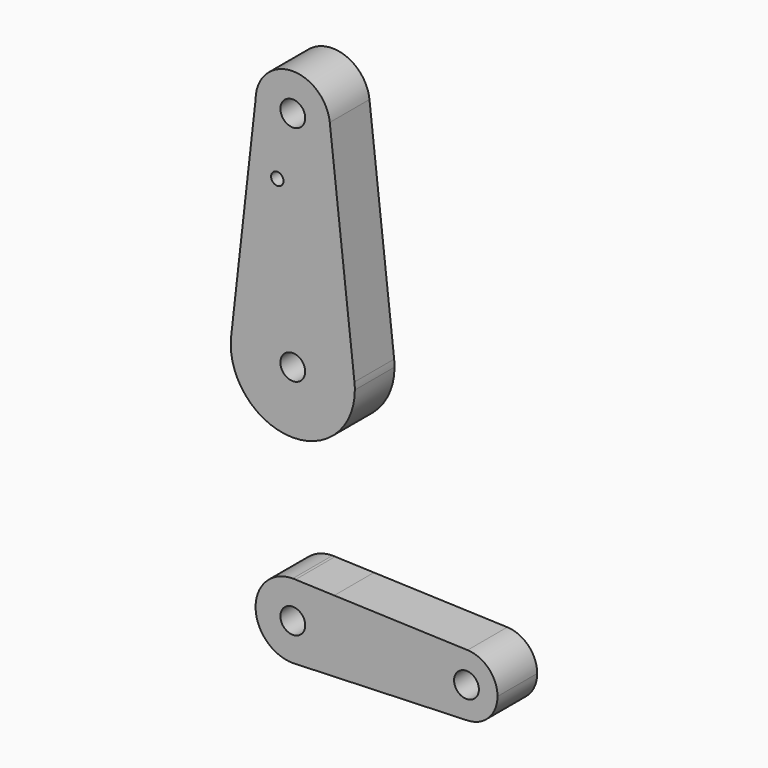
from build123d import *

# Parameters (mm, degrees)
F0_R     = 3.175
F0_R_2   = 1.5875
F1_DEPTH = 12.7


with BuildPart() as f1:
    # F0 (on Front) → F1 (new body)
    with BuildSketch(Plane.XZ):
        with BuildLine():
            ThreePointArc((-9.525, 114.3), (0, 104.775), (9.525, 114.3))
            ThreePointArc((9.525, 114.3), (9.510244, 114.829988), (9.466021, 115.358333))
            ThreePointArc((9.466021, 115.358333), (-0.529988, 123.810244), (-9.525, 114.3))
        make_face()
        with Locations((0, 114.3)):
            Circle(F0_R, mode=Mode.SUBTRACT)
        with BuildLine():
            ThreePointArc((9.466021, 115.358333), (9.510244, 114.829988), (9.525, 114.3))
            ThreePointArc((9.525, 114.3), (0, 104.775), (-9.525, 114.3))
            Line((-9.525, 114.3), (-15.774826, 58.930585))
            ThreePointArc((-15.774826, 58.930585), (0.0084, 73.024998), (15.776702, 58.913889))
            Line((15.776702, 58.913889), (9.466021, 115.358333))
        make_face()
        with Locations((-3.970379, 98.291509)):
            Circle(F0_R_2, mode=Mode.SUBTRACT)
        with BuildLine():
            ThreePointArc((15.875, 57.15), (15.850406, 58.033313), (15.776702, 58.913889))
            ThreePointArc((15.776702, 58.913889), (0.0084, 73.024998), (-15.774826, 58.930585))
            ThreePointArc((-15.774826, 58.930585), (-15.874998, 57.1584), (-15.776702, 55.386111))
            ThreePointArc((-15.776702, 55.386111), (0.883313, 41.299594), (15.875, 57.15))
        make_face()
        with Locations((0, 57.15)):
            Circle(F0_R, mode=Mode.SUBTRACT)
        with BuildLine():
            Line((0.677344, 9.500886), (0, 9.525))
            ThreePointArc((0, 9.525), (-9.525, 0), (0, -9.525))
            Line((0, -9.525), (0.677344, -9.500886))
            ThreePointArc((0.677344, -9.500886), (6.970557, -6.491299), (9.525, 0))
            ThreePointArc((9.525, 0), (6.970557, 6.491299), (0.677344, 9.500886))
        make_face()
        Circle(F0_R, mode=Mode.SUBTRACT)
        with BuildLine():
            ThreePointArc((0.677344, 9.500886), (0.338886, 9.51897), (0, 9.525))
            Line((0, 9.525), (0.677344, 9.500886))
        make_face()
        with BuildLine():
            Line((0.677344, -9.500886), (0, -9.525))
            ThreePointArc((0, -9.525), (0.338886, -9.51897), (0.677344, -9.500886))
        make_face()
        with BuildLine():
            Line((10.607054, 9.147377), (0.677344, 9.500886))
            ThreePointArc((0.677344, 9.500886), (6.970557, 6.491299), (9.525, 0))
            ThreePointArc((9.525, 0), (6.970557, -6.491299), (0.677344, -9.500886))
            Line((0.677344, -9.500886), (44.732405, -7.932475))
            ThreePointArc((44.732405, -7.932475), (36.5125, 0), (44.732405, 7.932475))
            Line((44.732405, 7.932475), (10.607054, 9.147377))
        make_face()
        with BuildLine():
            ThreePointArc((44.732405, 7.932475), (36.5125, 0), (44.732405, -7.932475))
            ThreePointArc((44.732405, -7.932475), (50.161633, -5.51191), (52.3875, 0))
            ThreePointArc((52.3875, 0), (50.161633, 5.51191), (44.732405, 7.932475))
        make_face()
        with Locations((44.45, 0)):
            Circle(F0_R, mode=Mode.SUBTRACT)
    extrude(amount=F1_DEPTH)


solid = f1.part
